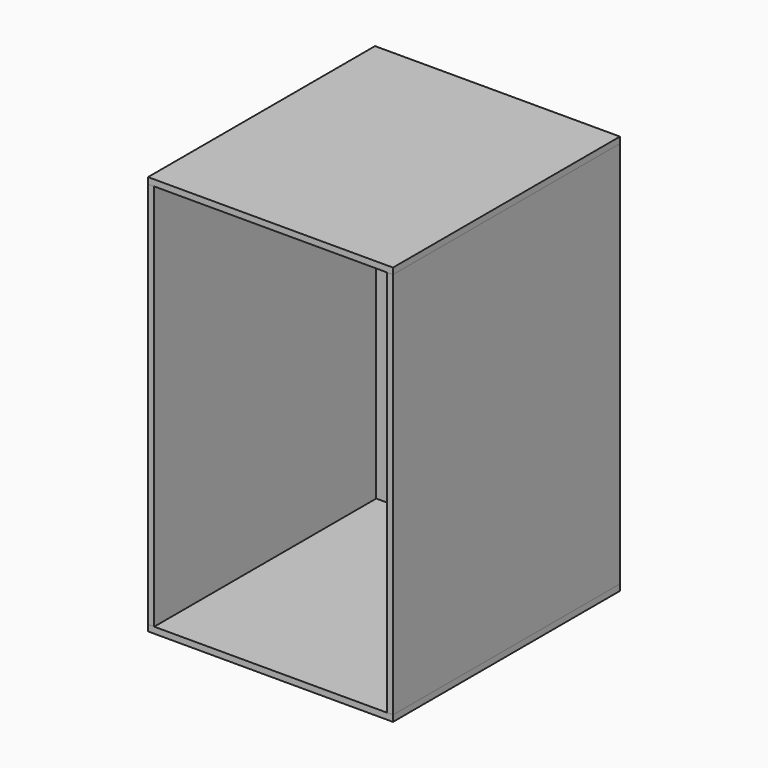
from build123d import *

# Parameters (mm, degrees)
F1_W      = 316
F1_H      = 366
F2_DEPTH  = 8
F3_W      = 366
F3_H      = 500
F4_DEPTH  = 8
F5_W      = 366
F5_H      = 500
F6_DEPTH  = 8
F7_W      = 300
F7_H      = 500
F8_DEPTH  = 8
F9_W      = 308
F9_H      = 366
F9_W_2    = 8
F10_DEPTH = 8


with BuildPart() as f2:
    # F1 (on Top) → F2 (new body)
    with BuildSketch(Plane.XY):
        Rectangle(F1_W, F1_H)
    extrude(amount=F2_DEPTH)


with BuildPart() as f4:
    # F3 (on face) → F4 (new body)
    with BuildSketch(Plane.YZ.offset(158)):
        with Locations((0, 258)):
            Rectangle(F3_W, F3_H)
    extrude(amount=-F4_DEPTH)


with BuildPart() as f6:
    # F5 (on face) → F6 (new body)
    with BuildSketch(Plane(origin=(-158, 0, 0), x_dir=(0, -1, 0), z_dir=(-1, 0, 0))):
        with Locations((0, 258)):
            Rectangle(F5_W, F5_H)
    extrude(amount=-F6_DEPTH)


with BuildPart() as f8:
    # F7 (on face) → F8 (new body)
    with BuildSketch(Plane(origin=(0, 183, 0), x_dir=(-1, 0, 0), z_dir=(0, 1, 0))):
        with Locations((0, 258)):
            Rectangle(F7_W, F7_H)
    extrude(amount=-F8_DEPTH)


with BuildPart() as f10:
    # F9 (on face) → F10 (new body)
    with BuildSketch(Plane.XY.offset(508)):
        with Locations((-4, 0)):
            Rectangle(F9_W, F9_H)
        with Locations((154, 0)):
            Rectangle(F9_W_2, F9_H)
    extrude(amount=F10_DEPTH)


solid = Compound([f2.part, f4.part, f6.part, f8.part, f10.part])
